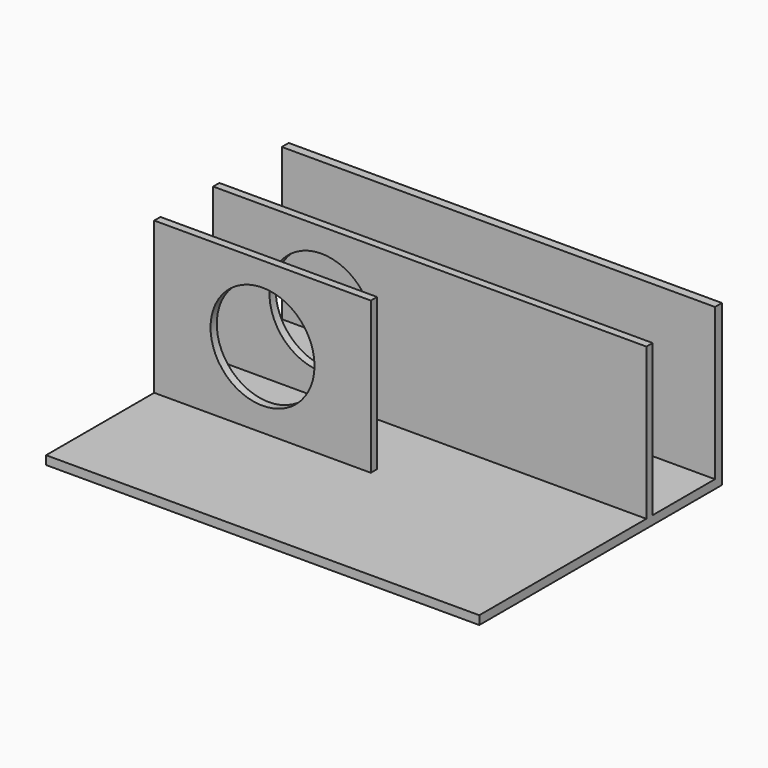
from build123d import *

# Parameters (mm, degrees)
F0_W     = 100
F0_H     = 70
F1_DEPTH = 2
F2_W     = 100
F2_H     = 2
F2_W_2   = 50
F2_H_2   = 1.8
F3_DEPTH = 35
F4_R     = 12
F5_DEPTH = 25
F6_R     = 1
F7_DEPTH = 5.1


with BuildPart() as f1:
    # F0 (on Top) → F1 (new body)
    with BuildSketch(Plane.XY):
        Rectangle(F0_W, F0_H)
    extrude(amount=-F1_DEPTH)

    # F2 (on face) → F3 (join)
    with BuildSketch(Plane.XY):
        with Locations((0, 34)):
            Rectangle(F2_W, F2_H)
        with Locations((-25, 14.1)):
            Rectangle(F2_W_2, F2_H_2)
        with Locations((-25, -2.9)):
            Rectangle(F2_W_2, F2_H_2)
        with Locations((25, 14.1)):
            Rectangle(F2_W_2, F2_H_2)
    extrude(amount=F3_DEPTH)

    # F4 (on face) → F5 (cut)
    with BuildSketch(Plane.XZ.offset(3.8)):
        with Locations((-25, 17.5)):
            Circle(F4_R)
    extrude(amount=-F5_DEPTH, mode=Mode.SUBTRACT)

    # F6 (on face) → F7 (cut)
    with BuildSketch(Plane(origin=(0, 35, 0), x_dir=(-1, 0, 0), z_dir=(0, 1, 0))):
        with Locations((24.412103, 17.940653)):
            Circle(F6_R)
    extrude(amount=-F7_DEPTH, mode=Mode.SUBTRACT)


solid = f1.part
